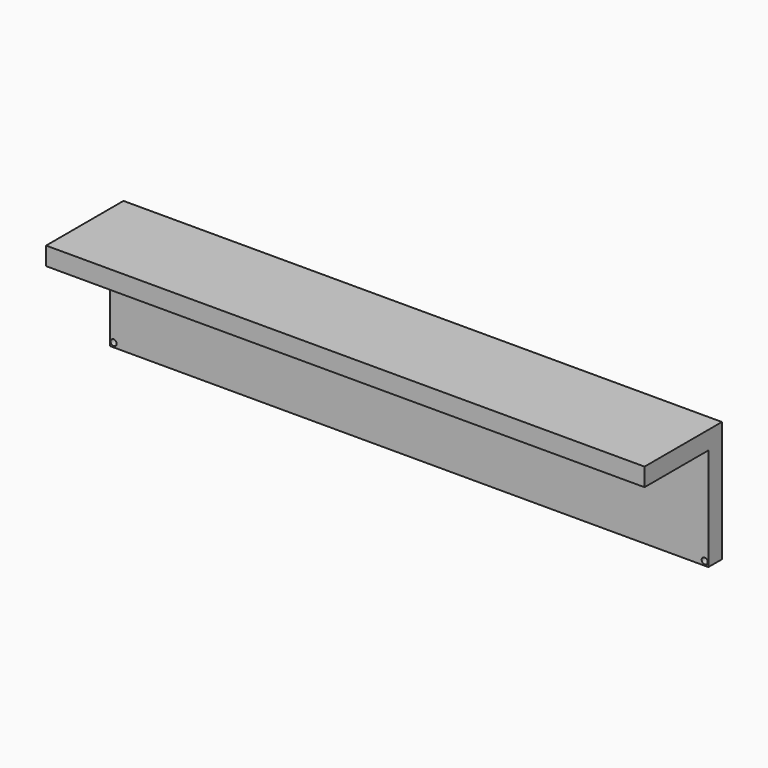
from build123d import *

# Parameters (mm, degrees)
F0_W     = 99
F0_H     = 3
F0_H_2   = 17
F1_DEPTH = 2.8
F2_DEPTH = 16
F3_R     = 0.5
F4_DEPTH = 3
F5_R     = 0.5
F6_DEPTH = 2.8
F7_DEPTH = 3


with BuildPart() as f1:
    # F0 (on Front) → F1 (new body)
    with BuildSketch(Plane.XZ):
        with Locations((-22.451522, 15.106464)):
            Rectangle(F0_W, F0_H)
        with Locations((-22.451522, 5.106464)):
            Rectangle(F0_W, F0_H_2)
    extrude(amount=F1_DEPTH)

    # F0 (on Front) → F2 (join)
    with BuildSketch(Plane.XZ):
        with Locations((-22.451522, 15.106464)):
            Rectangle(F0_W, F0_H)
    extrude(amount=F2_DEPTH)

    # F3 (on face) → F4 (cut)
    with BuildSketch(Plane.XZ):
        with Locations((26.443128, -2.697429)):
            Circle(F3_R)
        with Locations((-71.333528, -2.697429)):
            Circle(F3_R)
    extrude(amount=F4_DEPTH, mode=Mode.SUBTRACT)

    # F5 (on face) → F6 (cut)
    with BuildSketch(Plane.XZ):
        with Locations((26.413972, 16.001105)):
            Circle(F5_R)
        with Locations((-71.414955, 16.012859)):
            Circle(F5_R)
        with Locations((8.913972, 16.001105)):
            Circle(F5_R)
        with Locations((-53.914986, 16.045877)):
            Circle(F5_R)
    extrude(amount=F6_DEPTH, mode=Mode.SUBTRACT)

    # F5 (on face) → F7 (cut)
    with BuildSketch(Plane.XZ):
        with Locations((26.413972, 16.001105)):
            Circle(F5_R)
        with Locations((-71.414955, 16.012859)):
            Circle(F5_R)
        with Locations((8.913972, 16.001105)):
            Circle(F5_R)
        with Locations((-53.914986, 16.045877)):
            Circle(F5_R)
    extrude(amount=-F7_DEPTH, mode=Mode.SUBTRACT)


solid = f1.part
